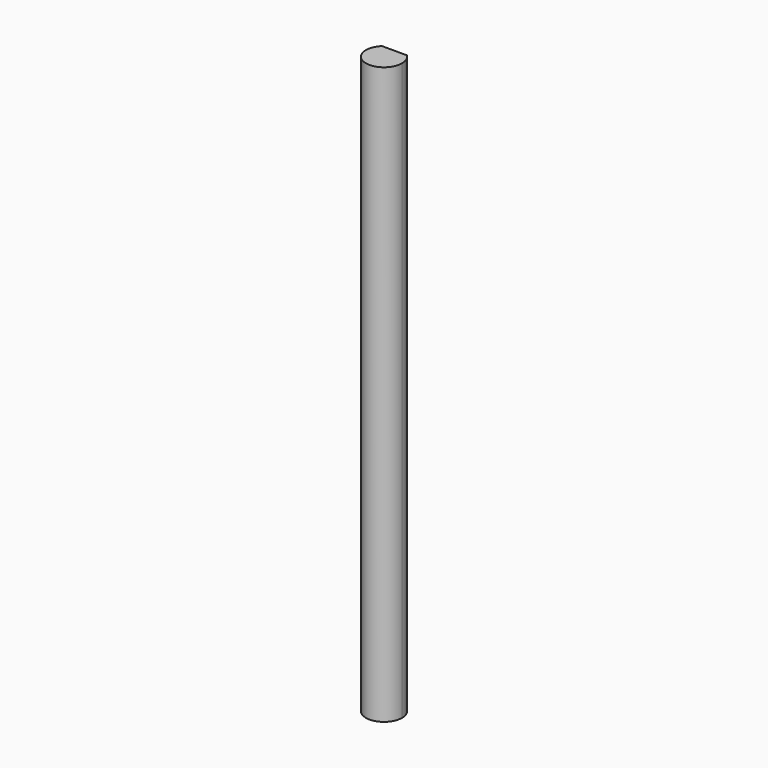
from build123d import *

# Parameters (mm, degrees)
F1_DEPTH = 101.6


with BuildPart() as f1:
    # F0 (on Top) → F1 (new body)
    with BuildSketch(Plane.XY):
        with BuildLine():
            ThreePointArc((-118.379739, -6.446435), (-117.435169, -11.66152), (-113.011654, -8.742302))
            ThreePointArc((-113.011654, -8.742302), (-113.267436, -7.493787), (-113.993569, -6.446435))
            Line((-113.993569, -6.446435), (-118.379739, -6.446435))
        make_face()
    extrude(amount=F1_DEPTH)


solid = f1.part
